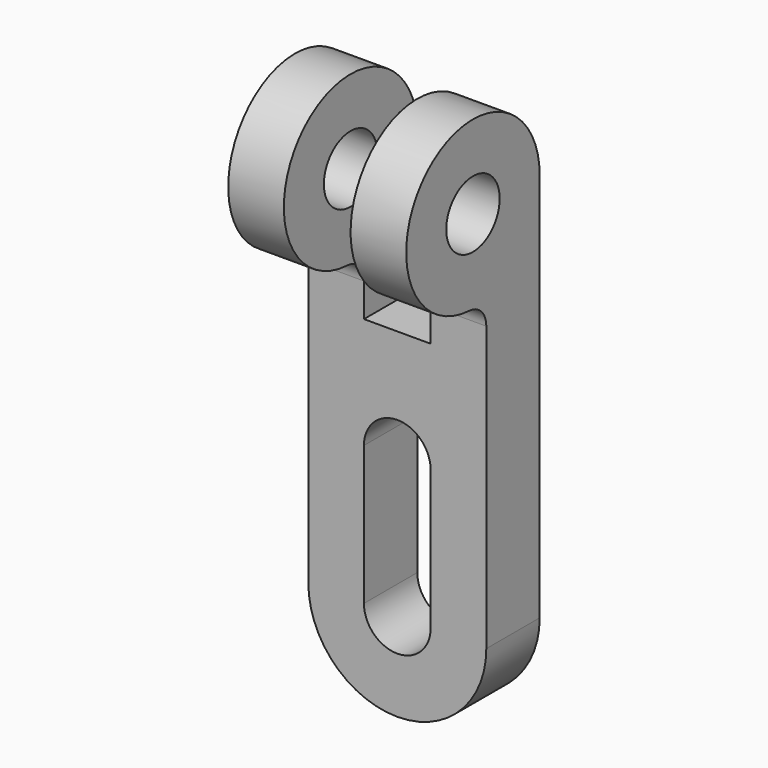
from build123d import *

# Parameters (mm, degrees)
F0_R     = 6
F1_DEPTH = 32
F2_W     = 12
F2_H     = 25
F2_H_2   = 15
F3_DEPTH = 33.3


with BuildPart() as f1:
    # F0 (on Right) → F1 (new body)
    with BuildSketch(Plane.YZ):
        with BuildLine():
            Line((6.456708, -48.016583), (6.456708, 37.983417))
            ThreePointArc((6.456708, 37.983417), (-18.867, 48.865561), (-9.332766, 23.004207))
            ThreePointArc((-9.332766, 23.004207), (-6.641387, 21.76274), (-5.543292, 19.009751))
            Line((-5.543292, 19.009751), (-5.543292, -48.016583))
            Line((-5.543292, -48.016583), (6.456708, -48.016583))
        make_face()
        with Locations((-8.543292, 37.983417)):
            Circle(F0_R, mode=Mode.SUBTRACT)
    extrude(amount=F1_DEPTH)

    # F2 (on Front) → F3 (cut, symmetric)
    with BuildSketch(Plane.XZ):
        with Locations((16, 25.483417)):
            Rectangle(F2_W, F2_H)
        with Locations((16, 45.483417)):
            Rectangle(F2_W, F2_H_2)
        with BuildLine():
            Line((10, -7.016583), (10, -32.016583))
            ThreePointArc((10, -32.016583), (16, -38.016583), (22, -32.016583))
            Line((22, -32.016583), (22, -7.016583))
            ThreePointArc((22, -7.016583), (16, -1.016583), (10, -7.016583))
        make_face()
        with BuildLine():
            Line((32, -48.016583), (32, -32.016583))
            ThreePointArc((32, -32.016583), (27.313708, -43.330291), (16, -48.016583))
            Line((16, -48.016583), (32, -48.016583))
        make_face()
        with BuildLine():
            Line((0, -48.016583), (16, -48.016583))
            ThreePointArc((16, -48.016583), (4.686292, -43.330291), (0, -32.016583))
            Line((0, -32.016583), (0, -48.016583))
        make_face()
    extrude(amount=F3_DEPTH, both=True, mode=Mode.SUBTRACT)


solid = f1.part
